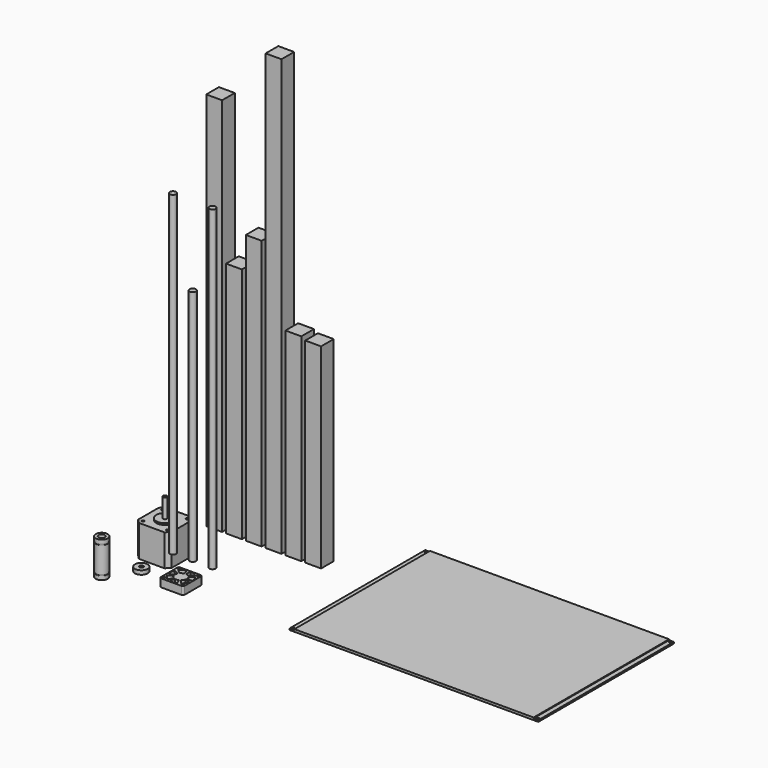
from build123d import *

# Parameters (mm, degrees)
F3_W      = 20
F3_H      = 20
F4_DEPTH  = 480
F5_DEPTH  = 300
F6_DEPTH  = 340
F7_DEPTH  = 550
F8_R      = 4
F9_DEPTH  = 400
F10_DEPTH = 300
F11_DEPTH = 400
F12_R     = 8
F12_R_2   = 2.5
F13_DEPTH = 5
F12_R_3   = 1.5
F14_DEPTH = 10
F15_DEPTH = 250
F16_DEPTH = 247
F12_R_4   = 7.5
F12_R_5   = 7.15
F12_R_6   = 4
F17_DEPTH = 22.5
F18_DEPTH = 17.5
F19_DEPTH = 16.4
F20_W     = 42.3
F20_H     = 42.3
F20_R     = 1.5
F20_R_2   = 11
F20_R_3   = 2.5
F21_DEPTH = 40
F22_DEPTH = 2
F23_DEPTH = 26
F24_START = -4.5
F24_DEPTH = 35.5
F25_SIZE  = 5
F26_W     = 314
F26_H     = 214
F26_R     = 1.5
F27_DEPTH = 2
F28_W     = 302
F28_H     = 214
F29_DEPTH = 3


with BuildPart() as f4:
    # F3 (on Top) → F4 (new body)
    with BuildSketch(Plane.XY):
        with Locations((0, 25)):
            Rectangle(F3_W, F3_H)
    extrude(amount=F4_DEPTH)


with BuildPart() as f5:
    # F3 (on Top) → F5 (new body)
    with BuildSketch(Plane.XY):
        with Locations((25, 25)):
            Rectangle(F3_W, F3_H)
    extrude(amount=F5_DEPTH)


with BuildPart() as f6:
    # F3 (on Top) → F6 (new body)
    with BuildSketch(Plane.XY):
        with Locations((50, 25)):
            Rectangle(F3_W, F3_H)
    extrude(amount=F6_DEPTH)


with BuildPart() as f7:
    # F3 (on Top) → F7 (new body)
    with BuildSketch(Plane.XY):
        with Locations((75, 25)):
            Rectangle(F3_W, F3_H)
    extrude(amount=F7_DEPTH)


with BuildPart() as f9:
    # F8 (on Top) → F9 (new body)
    with BuildSketch(Plane.XY):
        with Locations((0, -50)):
            Circle(F8_R)
    extrude(amount=F9_DEPTH)


with BuildPart() as f10:
    # F8 (on Top) → F10 (new body)
    with BuildSketch(Plane.XY):
        with Locations((25, -50)):
            Circle(F8_R)
    extrude(amount=F10_DEPTH)


with BuildPart() as f11:
    # F8 (on Top) → F11 (new body)
    with BuildSketch(Plane.XY):
        with Locations((50, -50)):
            Circle(F8_R)
    extrude(amount=F11_DEPTH)


with BuildPart() as f13:
    # F12 (on Top) → F13 (new body)
    with BuildSketch(Plane.XY):
        with Locations((0, -100)):
            Circle(F12_R)
        with Locations((0, -100)):
            Circle(F12_R_2, mode=Mode.SUBTRACT)
    extrude(amount=F13_DEPTH)


with BuildPart() as f14:
    # F12 (on Top) → F14 (new body)
    with BuildSketch(Plane.XY):
        with BuildLine():
            Line((37, -115), (63, -115))
            ThreePointArc((63, -115), (64.4142135624, -114.4142135624), (65, -113))
            Line((65, -113), (65, -87))
            ThreePointArc((65, -87), (64.4142135624, -85.5857864376), (63, -85))
            Line((63, -85), (37, -85))
            ThreePointArc((37, -85), (35.5857864376, -85.5857864376), (35, -87))
            Line((35, -87), (35, -113))
            ThreePointArc((35, -113), (35.5857864376, -114.4142135624), (37, -115))
        make_face()
        with Locations((38, -112)):
            Circle(F12_R_3, mode=Mode.SUBTRACT)
        with Locations((62, -112)):
            Circle(F12_R_3, mode=Mode.SUBTRACT)
        with BuildLine():
            ThreePointArc((61.4655183617, -91.5380623556), (63.5359915901, -95.5458523068), (64.25, -100))
            ThreePointArc((64.25, -100), (64.1280892746, -101.8599982391), (63.7644430246, -103.6881713927))
            ThreePointArc((63.7644430246, -103.6881713927), (61.9219456086, -107.8057487089), (58.8847296765, -111.1410986252))
            ThreePointArc((58.8847296765, -111.1410986252), (57.3545144018, -112.2054749156), (55.6984613466, -113.0610121461))
            ThreePointArc((55.6984613466, -113.0610121461), (51.3304314205, -114.1877571249), (46.8290766911, -113.8927227486))
            ThreePointArc((46.8290766911, -113.8927227486), (45.0428401797, -113.3599800343), (43.3414220471, -112.5986443574))
            ThreePointArc((43.3414220471, -112.5986443574), (39.7370752369, -109.8860950484), (37.1611936324, -106.1828432824))
            ThreePointArc((37.1611936324, -106.1828432824), (36.4640084099, -104.4541476932), (35.9984277564, -102.6492404021))
            ThreePointArc((35.9984277564, -102.6492404021), (35.8719107254, -98.1400017609), (37.1611936324, -93.8171567176))
            ThreePointArc((37.1611936324, -93.8171567176), (38.0780543914, -92.1942512911), (39.1989029452, -90.7049043893))
            ThreePointArc((39.1989029452, -90.7049043893), (42.6454855982, -87.7945250844), (46.8290766911, -86.1072772514))
            ThreePointArc((46.8290766911, -86.1072772514), (48.6695685795, -85.8122428751), (50.5328245184, -85.7599649568))
            ThreePointArc((50.5328245184, -85.7599649568), (54.9571598203, -86.6400199657), (58.8847296765, -88.8589013748))
            ThreePointArc((58.8847296765, -88.8589013748), (60.2629247631, -90.1139049516), (61.4655183617, -91.5380623556))
        make_face(mode=Mode.SUBTRACT)
        with Locations((38, -88)):
            Circle(F12_R_3, mode=Mode.SUBTRACT)
        with Locations((62, -88)):
            Circle(F12_R_3, mode=Mode.SUBTRACT)
        with BuildLine():
            Line((50.2804339571, -92.5052447141), (50.5328245184, -85.7599649568))
            ThreePointArc((50.5328245184, -85.7599649568), (48.6695685795, -85.8122428751), (46.8290766911, -86.1072772514))
            Line((46.8290766911, -86.1072772514), (48.3310929953, -92.6880406586))
            ThreePointArc((48.3310929953, -92.6880406586), (49.2997729366, -92.5327594079), (50.2804339571, -92.5052447141))
        make_face()
        with BuildLine():
            Line((56.0344833483, -95.5463486082), (61.4655183617, -91.5380623556))
            ThreePointArc((61.4655183617, -91.5380623556), (60.2629247631, -90.1139049516), (58.8847296765, -88.8589013748))
            Line((58.8847296765, -88.8589013748), (54.6761735139, -94.1362638815))
            ThreePointArc((54.6761735139, -94.1362638815), (55.401539349, -94.7967920798), (56.0344833483, -95.5463486082))
        make_face()
        with BuildLine():
            ThreePointArc((63.7644430246, -103.6881713927), (64.1280892746, -101.8599982391), (64.25, -100))
            Line((64.25, -100), (57.5, -100))
            ThreePointArc((57.5, -100), (57.4358364603, -100.9789464417), (57.2444436972, -101.9411428383))
            Line((57.2444436972, -101.9411428383), (63.7644430246, -103.6881713927))
        make_face()
        with BuildLine():
            ThreePointArc((35.9984277564, -102.6492404021), (36.4640084099, -104.4541476932), (37.1611936324, -106.1828432824))
            Line((37.1611936324, -106.1828432824), (43.2427334907, -103.2541280434))
            ThreePointArc((43.2427334907, -103.2541280434), (42.8757939, -102.3442882596), (42.6307514508, -101.3943370537))
            Line((42.6307514508, -101.3943370537), (35.9984277564, -102.6492404021))
        make_face()
        with BuildLine():
            Line((44.3152120764, -95.1078444154), (39.1989029452, -90.7049043893))
            ThreePointArc((39.1989029452, -90.7049043893), (38.0780543914, -92.1942512911), (37.1611936324, -93.8171567176))
            Line((37.1611936324, -93.8171567176), (43.2427334907, -96.7458719566))
            ThreePointArc((43.2427334907, -96.7458719566), (43.725291785, -95.8917112059), (44.3152120764, -95.1078444154))
        make_face()
        with BuildLine():
            ThreePointArc((57.2444436972, -101.9411428383), (57.4358364603, -100.9789464417), (57.5, -100))
            ThreePointArc((57.5, -100), (57.1242061, -97.6557117404), (56.0344833483, -95.5463486082))
            ThreePointArc((56.0344833483, -95.5463486082), (55.401539349, -94.7967920798), (54.6761735139, -94.1362638815))
            ThreePointArc((54.6761735139, -94.1362638815), (52.6090314844, -92.9684315609), (50.2804339571, -92.5052447141))
            ThreePointArc((50.2804339571, -92.5052447141), (49.2997729366, -92.5327594079), (48.3310929953, -92.6880406586))
            ThreePointArc((48.3310929953, -92.6880406586), (46.1292029464, -93.5760658339), (44.3152120764, -95.1078444154))
            ThreePointArc((44.3152120764, -95.1078444154), (43.725291785, -95.8917112059), (43.2427334907, -96.7458719566))
            ThreePointArc((43.2427334907, -96.7458719566), (42.5641635397, -99.0210535583), (42.6307514508, -101.3943370537))
            ThreePointArc((42.6307514508, -101.3943370537), (42.8757939, -102.3442882596), (43.2427334907, -103.2541280434))
            ThreePointArc((43.2427334907, -103.2541280434), (44.598460651, -105.2032079202), (46.495485288, -106.6308654513))
            ThreePointArc((46.495485288, -106.6308654513), (47.3909685156, -107.0315684391), (48.3310929953, -107.3119593414))
            ThreePointArc((48.3310929953, -107.3119593414), (50.7002270634, -107.4672405921), (52.9991901824, -106.874216919))
            ThreePointArc((52.9991901824, -106.874216919), (53.8707970536, -106.4239341661), (54.6761735139, -105.8637361185))
            ThreePointArc((54.6761735139, -105.8637361185), (56.274708215, -104.1082887941), (57.2444436972, -101.9411428383))
        make_face()
        with BuildLine():
            ThreePointArc((43.3414220471, -112.5986443574), (45.0428401797, -113.3599800343), (46.8290766911, -113.8927227486))
            Line((46.8290766911, -113.8927227486), (48.3310929953, -107.3119593414))
            ThreePointArc((48.3310929953, -107.3119593414), (47.3909685156, -107.0315684391), (46.495485288, -106.6308654513))
            Line((46.495485288, -106.6308654513), (43.3414220471, -112.5986443574))
        make_face()
        with BuildLine():
            ThreePointArc((55.6984613466, -113.0610121461), (57.3545144018, -112.2054749156), (58.8847296765, -111.1410986252))
            Line((58.8847296765, -111.1410986252), (54.6761735139, -105.8637361185))
            ThreePointArc((54.6761735139, -105.8637361185), (53.8707970536, -106.4239341661), (52.9991901824, -106.874216919))
            Line((52.9991901824, -106.874216919), (55.6984613466, -113.0610121461))
        make_face()
    extrude(amount=F14_DEPTH)


with BuildPart() as f15:
    # F3 (on Top) → F15 (new body)
    with BuildSketch(Plane.XY):
        with Locations((100, 25)):
            Rectangle(F3_W, F3_H)
    extrude(amount=F15_DEPTH)


with BuildPart() as f16:
    # F3 (on Top) → F16 (new body)
    with BuildSketch(Plane.XY):
        with Locations((125, 25)):
            Rectangle(F3_W, F3_H)
    extrude(amount=F16_DEPTH)


with BuildPart() as f17:
    # F12 (on Top) → F17 (new body, symmetric)
    with BuildSketch(Plane.XY):
        with Locations((-50, -100)):
            Circle(F12_R_4)
        with Locations((-50, -100)):
            Circle(F12_R_5, mode=Mode.SUBTRACT)
        with Locations((-50, -100)):
            Circle(F12_R_5)
        with Locations((-50, -100)):
            Circle(F12_R_6, mode=Mode.SUBTRACT)
    extrude(amount=F17_DEPTH, both=True)

    # F12 (on Top) → F18 (cut, symmetric)
    with BuildSketch(Plane.XY):
        with Locations((-50, -100)):
            Circle(F12_R_4)
        with Locations((-50, -100)):
            Circle(F12_R_5, mode=Mode.SUBTRACT)
    extrude(amount=F18_DEPTH, both=True, mode=Mode.SUBTRACT)

    # F12 (on Top) → F19 (join, symmetric)
    with BuildSketch(Plane.XY):
        with Locations((-50, -100)):
            Circle(F12_R_4)
        with Locations((-50, -100)):
            Circle(F12_R_5, mode=Mode.SUBTRACT)
    extrude(amount=F19_DEPTH, both=True)


with BuildPart() as f21:
    # F20 (on Top) → F21 (new body)
    with BuildSketch(Plane.XY):
        with Locations((-50, 0)):
            Rectangle(F20_W, F20_H)
        with Locations((-65.5, -15.5)):
            Circle(F20_R, mode=Mode.SUBTRACT)
        with Locations((-34.5, -15.5)):
            Circle(F20_R, mode=Mode.SUBTRACT)
        with Locations((-65.5, 15.5)):
            Circle(F20_R, mode=Mode.SUBTRACT)
        with Locations((-50, 0)):
            Circle(F20_R_2, mode=Mode.SUBTRACT)
        with Locations((-34.5, 15.5)):
            Circle(F20_R, mode=Mode.SUBTRACT)
        with Locations((-50, 0)):
            Circle(F20_R_2)
        with Locations((-50, 0)):
            Circle(F20_R_3, mode=Mode.SUBTRACT)
        with Locations((-50, 0)):
            Circle(F20_R_3)
    extrude(amount=-F21_DEPTH)

    # F20 (on Top) → F22 (join)
    with BuildSketch(Plane.XY):
        with Locations((-50, 0)):
            Circle(F20_R_2)
        with Locations((-50, 0)):
            Circle(F20_R_3, mode=Mode.SUBTRACT)
    extrude(amount=F22_DEPTH)

    # F20 (on Top) → F23 (join)
    with BuildSketch(Plane.XY):
        with Locations((-50, 0)):
            Circle(F20_R_3)
    extrude(amount=F23_DEPTH)

    # F20 (on Top) → F24 (join)
    with BuildSketch(Plane.XY.offset(F24_START)):
        with Locations((-65.5, 15.5)):
            Circle(F20_R)
        with Locations((-34.5, 15.5)):
            Circle(F20_R)
        with Locations((-34.5, -15.5)):
            Circle(F20_R)
        with Locations((-65.5, -15.5)):
            Circle(F20_R)
    extrude(amount=-F24_DEPTH)

    # F25
    f25_edges = [f21.edges().sort_by_distance(p)[0] for p in [
        (-71.15, 21.15, -20),
        (-71.15, -21.15, -20),
        (-28.85, -21.15, -20),
        (-28.85, 21.15, -20),
    ]]
    chamfer(f25_edges, length=F25_SIZE)


with BuildPart() as f27:
    # F26 (on Top) → F27 (new body)
    with BuildSketch(Plane.XY):
        with Locations((350, 0)):
            Rectangle(F26_W, F26_H)
        with Locations((195.5, -104.5)):
            Circle(F26_R, mode=Mode.SUBTRACT)
        with Locations((504.5, -104.5)):
            Circle(F26_R, mode=Mode.SUBTRACT)
        with Locations((195.5, 104.5)):
            Circle(F26_R, mode=Mode.SUBTRACT)
        with Locations((504.5, 104.5)):
            Circle(F26_R, mode=Mode.SUBTRACT)
    extrude(amount=F27_DEPTH)


with BuildPart() as f29:
    # F28 (on Top) → F29 (new body)
    with BuildSketch(Plane.XY):
        with Locations((350, 0)):
            Rectangle(F28_W, F28_H)
    extrude(amount=F29_DEPTH)


solid = Compound([f4.part, f5.part, f6.part, f7.part, f9.part, f10.part, f11.part, f13.part, f14.part, f15.part, f16.part, f17.part, f21.part, f27.part, f29.part])
